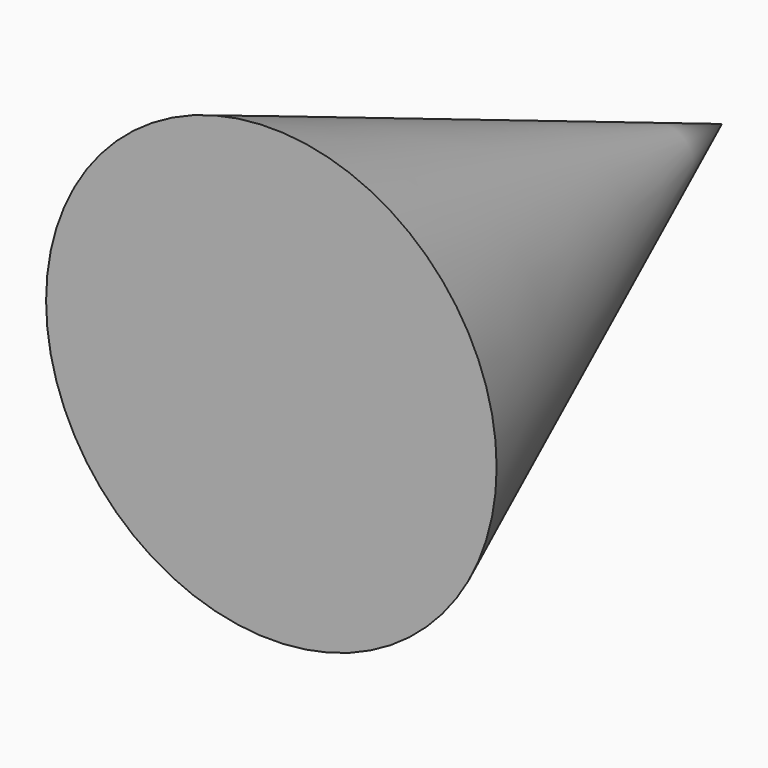
from build123d import *

# Parameters (mm, degrees)
F0_R       = 10
F1_DEPTH   = 25
F1_FACE1_R = 10


with BuildPart() as f1:
    # F0 (on Front) → F1 (new body)
    with BuildSketch(Plane.XZ):
        Circle(F0_R)
    extrude(amount=F1_DEPTH)

    # F1_face1 (on face) → F4 section 0
    with BuildSketch(Plane.XZ.offset(25), mode=Mode.PRIVATE) as f4_s0:
        Circle(F1_FACE1_R)
    loft([f4_s0.sketch, Vertex(0, 0, 0)], mode=Mode.INTERSECT)


solid = f1.part
